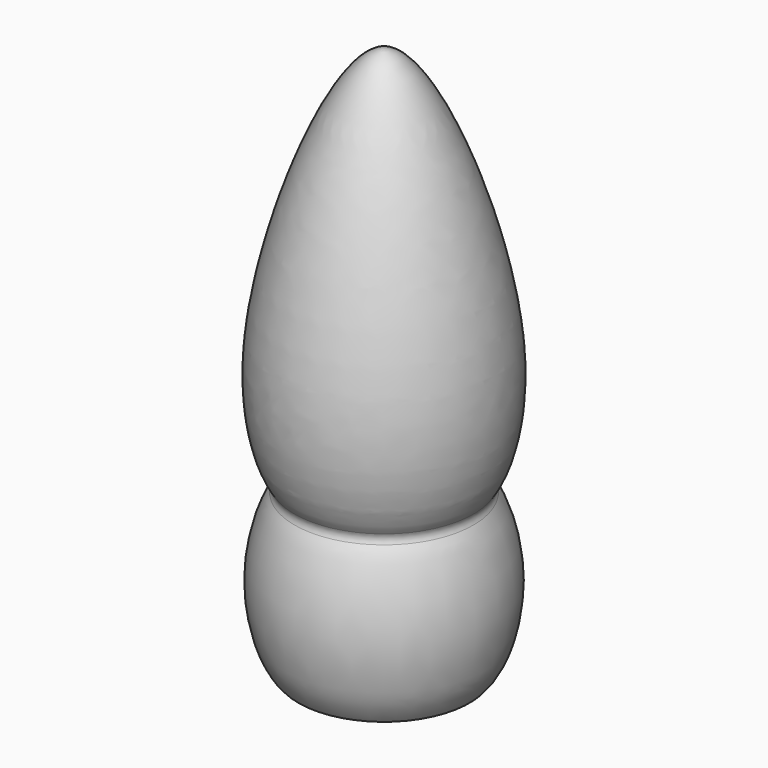
from build123d import *

# Parameters (mm, degrees)
F2_R = 1


with BuildPart() as f1:
    # F0 (on Front) → F1 (revolve)
    with BuildSketch(Plane.XZ):
        with BuildLine():
            add(Edge.make_bspline(
                [(-10, 0), (-11.5, 1.5), (-14.0610059332, 9.5), (-11.3779881336, 17.5), (-10, 19)],
                knots=[0, 0, 0, 0, 0.5, 1, 1, 1, 1], degree=3))
            Line((-10, 0), (-6.65, 0))
            Line((-6.65, 0), (-6.65, 15))
            Line((-6.65, 15), (0, 15))
            Line((0, 15), (0, 64))
            add(Edge.make_bspline(
                [(-10, 19), (-11.5, 20.5), (-16.4077424385, 33.608875306), (-4.7264881485, 64), (0, 64)],
                knots=[0, 0, 0, 0, 0.4061703287, 1, 1, 1, 1], degree=3))
        make_face()
    revolve(axis=Axis((0, 0, 32), (0, 0, -1)))

    # F2
    f2_edges = [f1.edges().sort_by_distance(p)[0] for p in [
        (10, 0, 19),
    ]]
    fillet(f2_edges, radius=F2_R)


solid = f1.part
